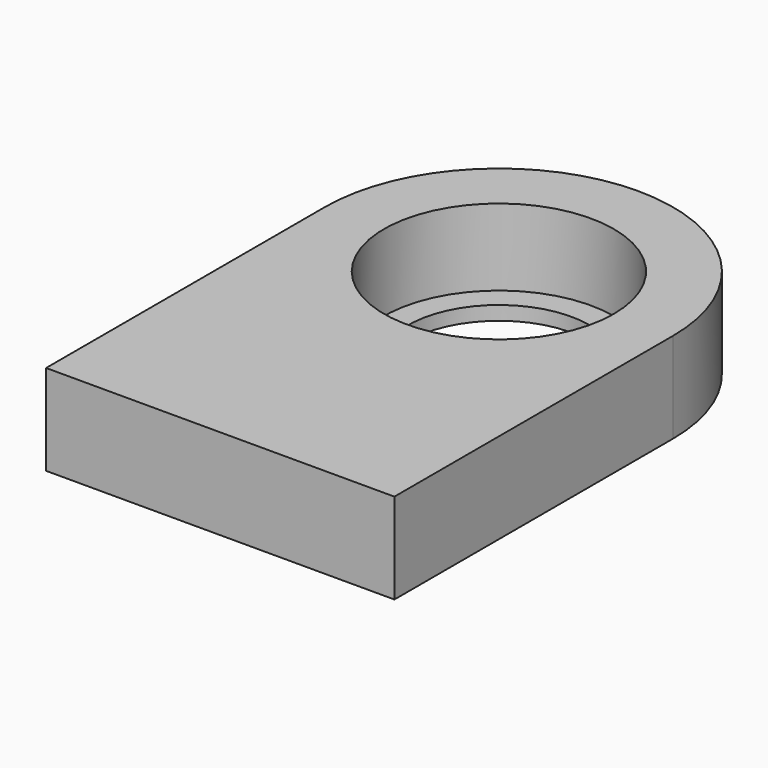
from build123d import *

# Parameters (mm, degrees)
F0_R     = 8.25
F1_DEPTH = 6.5
F0_R_2   = 6.5
F2_DEPTH = 1


with BuildPart() as f1:
    # F0 (on Top) → F1 (new body)
    with BuildSketch(Plane.XY):
        with BuildLine():
            Line((12.5, -25), (12.5, 0))
            ThreePointArc((12.5, 0), (0, 12.5), (-12.5, 0))
            Line((-12.5, 0), (-12.5, -25))
            Line((-12.5, -25), (12.5, -25))
        make_face()
        Circle(F0_R, mode=Mode.SUBTRACT)
    extrude(amount=F1_DEPTH)

    # F0 (on Top) → F2 (join)
    with BuildSketch(Plane.XY):
        Circle(F0_R)
        Circle(F0_R_2, mode=Mode.SUBTRACT)
    extrude(amount=F2_DEPTH)


solid = f1.part
